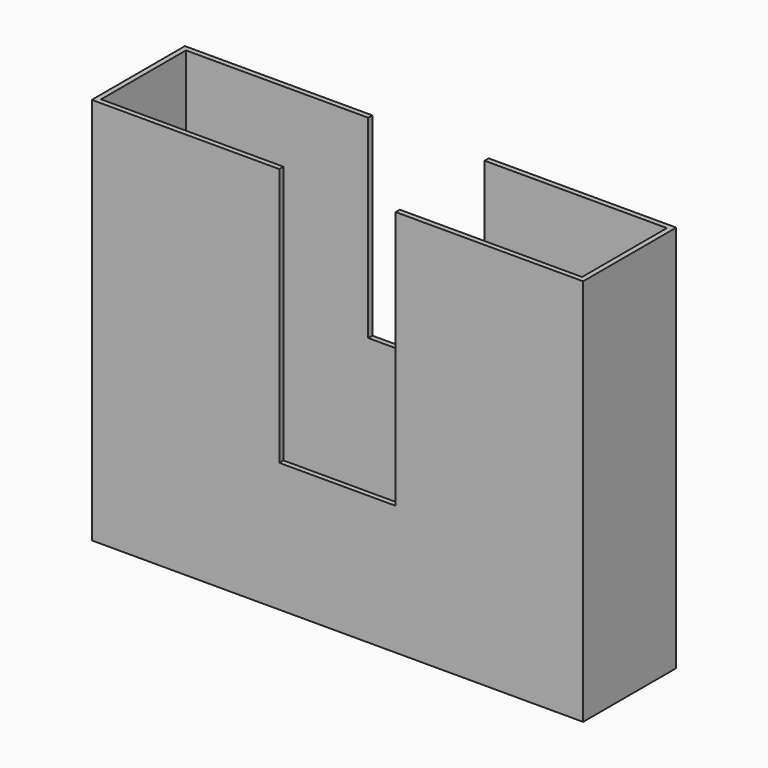
from build123d import *

# Parameters (mm, degrees)
F1_DEPTH = 114.3
F2_W     = 472.44
F2_H     = 104.14
F3_DEPTH = 374.904
F4_W     = 114.3
F4_H     = 63.5
F5_DEPTH = 25.4


with BuildPart() as f1:
    # F0 (on Front) → F1 (new body)
    with BuildSketch(Plane.XZ):
        Polygon((-241.3, -190.5), (241.3, -190.5), (241.3, 190.5), (57.15, 190.5), (57.15, 0), (-57.15, 0), (-57.15, 190.5), (-241.3, 190.5), align=None)
    extrude(amount=-F1_DEPTH)

    # F2 (on face) → F3 (cut)
    with BuildSketch(Plane.XY.offset(190.5)):
        with Locations((0, 57.15)):
            Rectangle(F2_W, F2_H)
    extrude(amount=-F3_DEPTH, mode=Mode.SUBTRACT)

    # F4 (on face) → F5 (cut)
    with BuildSketch(Plane.XZ):
        with Locations((0, -31.75)):
            Rectangle(F4_W, F4_H)
    extrude(amount=-F5_DEPTH, mode=Mode.SUBTRACT)


solid = f1.part
